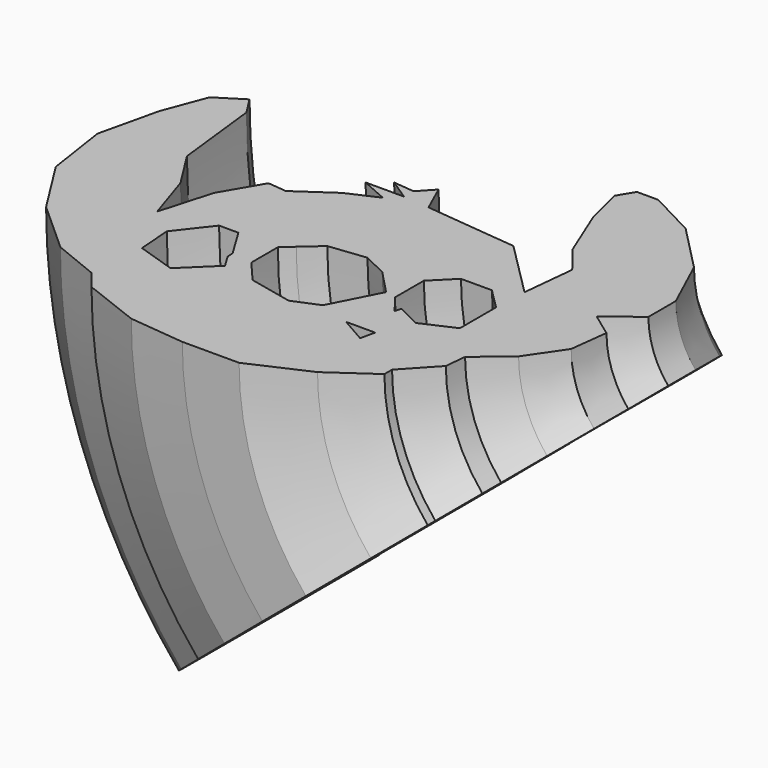
from build123d import *

# Parameters (mm, degrees)
F1_ANGLE = 40


with BuildPart() as f1:
    # F0 (on Top) → F1 (revolve)
    with BuildSketch(Plane.XY):
        Polygon((28.799957, 21.561632), (28.799957, 12.819916), (35.130166, 21.561632), (31.819634, 23.958914), (36.335919, 27.439682), (36.335919, 32.262698), (32.869376, 39.798658), (26.38845, 46.430305), (19.756803, 49.896847), (16.742419, 49.896847), (15.385945, 47.636058), (16.742419, 42.210165), (19.756803, 34.824926), (22.780804, 30.966716), (24.12766, 29.248312), align=None)
        Polygon((35.130166, 21.561632), (28.799957, 12.819916), (28.799957, 21.561632), (24.12766, 29.248312), (22.780804, 30.966716), (22.017591, 23.520982), (16.667058, 28.871514), (14.180192, 31.35838), (11.870201, 31.595162), (5.361195, 32.262357), (1.154359, 32.693573), (-0.653343, 36.710685), (-2.549643, 34.674205), (-5.52113, 34.978793), (-2.549643, 33.016294), (-7.975536, 33.016294), (-4.207555, 31.35838), (-8.431453, 29.457625), (-13.552147, 25.932489), (-16.19102, 26.202983), (-19.430198, 20.657316), (-21.540266, 13.272074), (-21.540266, 6.489708), (-20.952175, 3.67613), (-20.183794, 0), (-18.073725, -2.633195), (-15.963655, -5.266391), (-7.824816, -8.431495), (0, -9.233566), (8.000703, -9.233566), (16.128225, -5.576178), (22.16831, -1.347692), (22.16831, 0), (26.23773, 4.379639), (26.539169, 7.394024), (31.060746, 11.162004), (34.469465, 16.161462), align=None)
        Polygon((-17.773023, 10.257689), (-14.139653, 14.920566), (-11.414627, 14.920566), (-10.262036, 13.024369), (-8.856477, 10.711998), (-8.783638, 9.730172), (-7.640627, 7.849735), (-11.959632, 3.657121), (-17.415215, 5.434674), align=None, mode=Mode.SUBTRACT)
        Polygon((14.745632, 3.657121), (11.112262, 5.736113), (15.201996, 5.736113), align=None, mode=Mode.SUBTRACT)
        Polygon((6.794949, 17.492212), (9.884694, 14.262024), (10.110772, 14.02567), (9.884694, 13.583343), (6.644229, 7.243304), (3.026968, 5.736113), (-3.152521, 7.092585), (-5.865466, 10.257689), (-5.865466, 14.929986), (-4.358274, 16.286459), (-1.796047, 18.547246), (3.394514, 19.138865), align=None, mode=Mode.SUBTRACT)
        Polygon((13.655621, 11.105528), (11.657268, 13.648886), (11.657268, 18.735604), (14.563963, 21.6423), (18.924005, 21.6423), (21.830701, 18.735605), (21.830701, 12.377207), (17.222896, 10.303694), (13.922315, 11.990658), align=None, mode=Mode.SUBTRACT)
        Polygon((-24.554653, 0), (-18.073725, -2.633195), (-20.183794, 0), (-20.952175, 3.67613), (-21.540266, 6.489708), (-21.540266, 13.272074), (-23.801055, 20.205159), (-27.232317, 25.628765), (-28.624071, 37.839308), (-30.305653, 40.497292), (-34.044402, 38.131959), (-36.310751, 32.111976), (-38.270105, 23.671702), (-36.91363, 14.628547), (-31.764652, 6.489844), align=None)
    revolve(axis=Axis((48.242737, 22.056726, 0), (0, -1, 0)), revolution_arc=F1_ANGLE)


solid = f1.part
